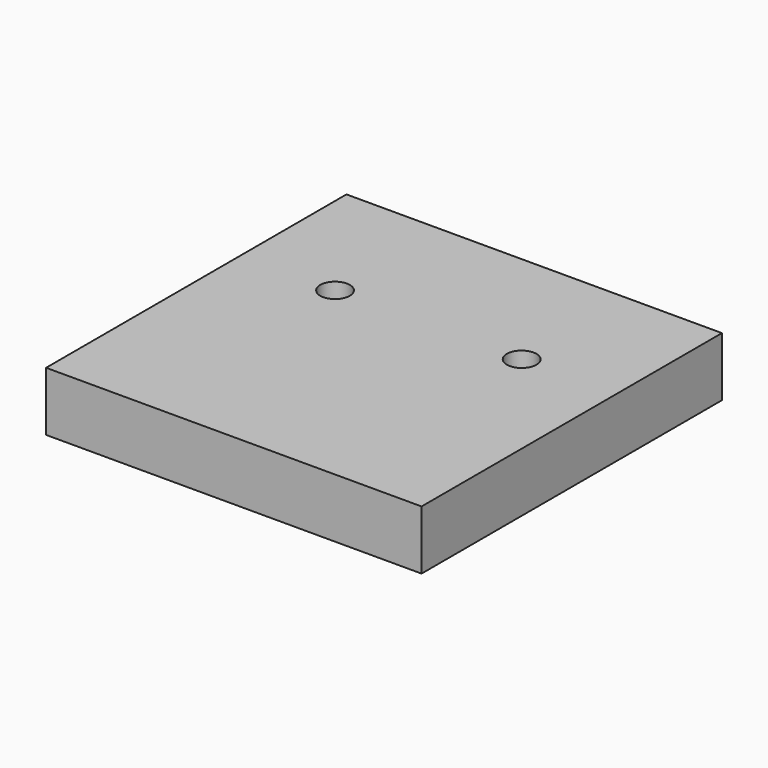
from build123d import *

# Parameters (mm, degrees)
F0_W     = 50.8
F0_H     = 50.8
F1_DEPTH = 8
F2_R     = 2
F3_DEPTH = 8


with BuildPart() as f1:
    # F0 (on Top) → F1 (new body)
    with BuildSketch(Plane.XY):
        Rectangle(F0_W, F0_H)
    extrude(amount=F1_DEPTH)

    # F2 (on Top) → F3 (cut, through all)
    with BuildSketch(Plane.XY):
        with Locations((-12.621296, 7.5)):
            Circle(F2_R)
        with Locations((12.621296, 7.5)):
            Circle(F2_R)
    extrude(amount=F3_DEPTH, mode=Mode.SUBTRACT)


solid = f1.part
